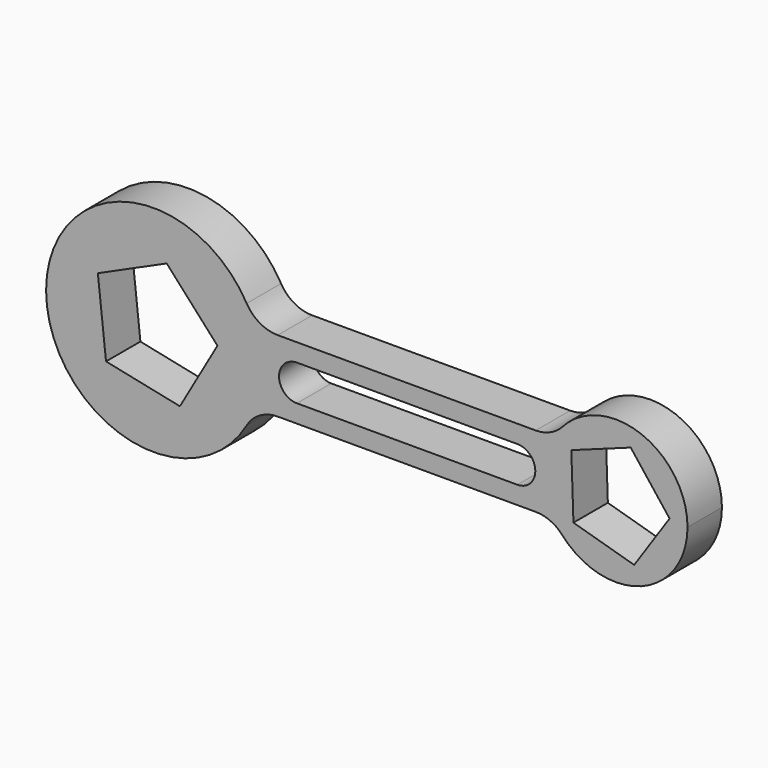
from build123d import *

# Parameters (mm, degrees)
F1_DEPTH = 12
F2_R     = 10


with BuildPart() as f1:
    # F0 (on Front) → F1 (new body)
    with BuildSketch(Plane.XZ):
        with BuildLine():
            Line((-42.918921, -10), (-42.918921, 10))
            ThreePointArc((-42.918921, 10), (-101.203192, 0), (-42.918921, -10))
        make_face()
        Polygon((-86.754676, 8.906493), (-67.538286, 17.542597), (-53.386672, 1.935428), (-63.856883, -16.346437), (-84.479443, -12.038082), align=None, mode=Mode.SUBTRACT)
        with BuildLine():
            Line((40.4763, 10), (-42.918921, 10))
            ThreePointArc((-42.918921, 10), (-41.635235, 5.073059), (-41.203192, 0))
            ThreePointArc((-41.203192, 0), (-41.635235, -5.073059), (-42.918921, -10))
            Line((-42.918921, -10), (40.4763, -10))
            ThreePointArc((40.4763, -10), (37.796808, 0), (40.4763, 10))
        make_face()
        with BuildLine():
            ThreePointArc((-31.200418, -5), (-36.200418, 0), (-31.200418, 5))
            Line((-31.200418, 5), (30.31986, 5))
            ThreePointArc((30.31986, 5), (33.855394, 3.535534), (35.31986, 0))
            ThreePointArc((35.31986, 0), (33.855394, -3.535534), (30.31986, -5))
            Line((30.31986, -5), (-31.200418, -5))
        make_face(mode=Mode.SUBTRACT)
        with BuildLine():
            ThreePointArc((-41.203192, 0), (-41.635235, 5.073059), (-42.918921, 10))
            Line((-42.918921, 10), (-42.918921, -10))
            ThreePointArc((-42.918921, -10), (-41.635235, -5.073059), (-41.203192, 0))
        make_face()
        with BuildLine():
            Line((40.4763, -10), (40.4763, 10))
            ThreePointArc((40.4763, 10), (37.796808, 0), (40.4763, -10))
        make_face()
        with BuildLine():
            ThreePointArc((77.796808, 0), (62.973189, 19.318517), (40.4763, 10))
            Line((40.4763, 10), (40.4763, -10))
            ThreePointArc((40.4763, -10), (62.973189, -19.318517), (77.796808, 0))
        make_face()
        Polygon((45.367177, 8.401368), (61.946016, 14.417447), (72.79079, 0.509104), (62.91439, -14.102803), (45.965665, -9.225116), align=None, mode=Mode.SUBTRACT)
    extrude(amount=F1_DEPTH)

    # F2
    f2_edges = [f1.edges().sort_by_distance(p)[0] for p in [
        (-42.918921, -6, -10),
        (40.4763, -6, -10),
        (40.4763, -6, 10),
        (-42.918921, -6, 10),
    ]]
    fillet(f2_edges, radius=F2_R)


solid = f1.part
